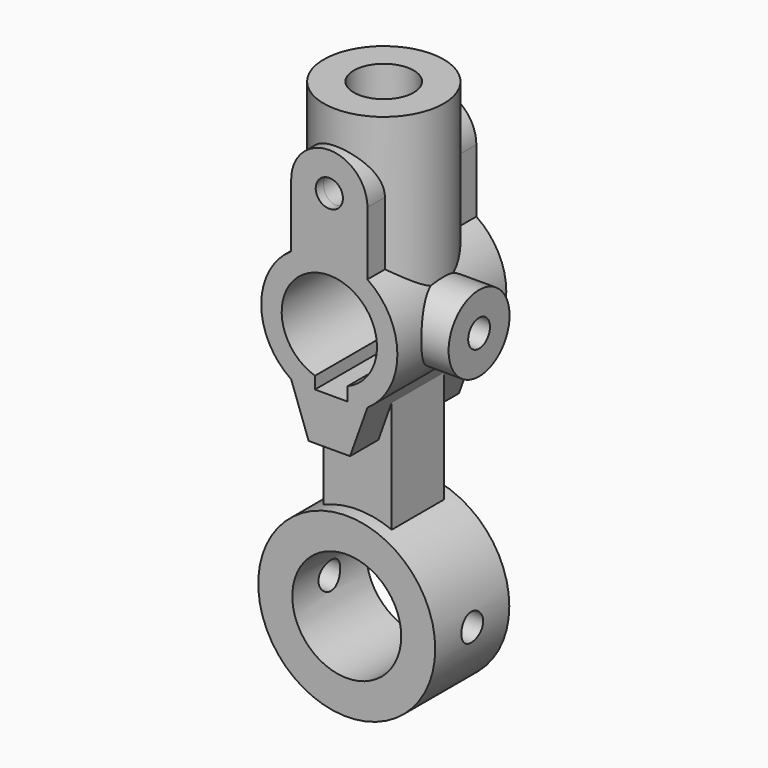
from build123d import *

# Parameters (mm, degrees)
F0_R      = 32.5
F0_R_2    = 20
F1_DEPTH  = 17
F2_R      = 17.5
F2_R_2    = 5
F3_DEPTH  = 25
F4_W      = 24
F4_H      = 52.1851917974
F5_DEPTH  = 12.5
F7_START  = 96
F6_R      = 22
F6_R_2    = 11
F7_DEPTH  = 70
F8_R      = 5
F9_DEPTH  = 25
F11_START = 18
F10_R     = 14
F10_R_2   = 5
F11_DEPTH = 17
F12_R     = 5
F13_DEPTH = 50
F14_R     = 5
F15_DEPTH = 100
F17_START = 100.45669
F16_R     = 11
F17_DEPTH = 95.49009


with BuildPart() as f1:
    # F0 (on Front) → F1 (new body, symmetric)
    with BuildSketch(Plane.XZ):
        Circle(F0_R)
        Circle(F0_R_2, mode=Mode.SUBTRACT)
    extrude(amount=F1_DEPTH, both=True)



with BuildPart() as f3:
    # F2 (on Front) → F3 (new body, symmetric)
    with BuildSketch(Plane.XZ):
        with BuildLine():
            Line((14, 116.7123151772), (14, 140))
            ThreePointArc((14, 140), (0, 154), (-14, 140))
            Line((-14, 140), (-14, 116.7123151772))
            ThreePointArc((-14, 116.7123151772), (-25, 96), (-14, 75.2876848228))
            Line((-14, 75.2876848228), (-7.6071750373, 57.4770346284))
            Line((-7.6071750373, 57.4770346284), (7.6071750373, 57.4770346284))
            Line((7.6071750373, 57.4770346284), (14, 75.2876848228))
            ThreePointArc((14, 75.2876848228), (25, 96), (14, 116.7123151772))
        make_face()
        with Locations((0, 96)):
            Circle(F2_R, mode=Mode.SUBTRACT)
        with Locations((0, 140)):
            Circle(F2_R_2, mode=Mode.SUBTRACT)
    extrude(amount=F3_DEPTH, both=True)


with BuildPart() as f1_1:
    add(f1.part)

    add(f3.part)  # F5 merges F3
    # F4 (on Right) → F5 (join, symmetric)
    with BuildSketch(Plane.YZ):
        with Locations((0, 49.1950889241)):
            Rectangle(F4_W, F4_H)
    extrude(amount=F5_DEPTH, both=True)

    # F6 (on Top) → F7 (join)
    with BuildSketch(Plane.XY.offset(F7_START)):
        Circle(F6_R)
        Circle(F6_R_2, mode=Mode.SUBTRACT)
    extrude(amount=F7_DEPTH)

    # F8 (on Front) → F9 (cut, symmetric)
    with BuildSketch(Plane.XZ):
        with BuildLine():
            Line((-5.2628141348, 79.8488289397), (6.7371858652, 79.8488289397))
            ThreePointArc((6.7371858652, 79.8488289397), (14.562807982, 86.295638935), (17.5, 96))
            ThreePointArc((17.5, 96), (-10.3477232433, 110.1129239947), (-5.2628141348, 79.3100992399))
            Line((-5.2628141348, 79.3100992399), (-5.2628141348, 79.8488289397))
        make_face()
        with BuildLine():
            Line((6.7371858652, 74.8488289397), (6.7371858652, 79.8488289397))
            ThreePointArc((6.7371858652, 79.8488289397), (0.7848569438, 78.5176088713), (-5.2628141348, 79.3100992399))
            Line((-5.2628141348, 79.3100992399), (-5.2628141348, 74.8488289397))
            Line((-5.2628141348, 74.8488289397), (6.7371858652, 74.8488289397))
        make_face()
        with BuildLine():
            ThreePointArc((-5.2628141348, 79.3100992399), (0.7848569438, 78.5176088713), (6.7371858652, 79.8488289397))
            Line((6.7371858652, 79.8488289397), (-5.2628141348, 79.8488289397))
            Line((-5.2628141348, 79.8488289397), (-5.2628141348, 79.3100992399))
        make_face()
        with Locations((0, 140)):
            Circle(F8_R)
    extrude(amount=F9_DEPTH, both=True, mode=Mode.SUBTRACT)

    # F10 (on Right) → F11 (join)
    with BuildSketch(Plane.YZ.offset(F11_START)):
        with Locations((0, 96)):
            Circle(F10_R)
        with Locations((0, 96)):
            Circle(F10_R_2, mode=Mode.SUBTRACT)
    extrude(amount=F11_DEPTH)

    # F12 (on Right) → F13 (cut, symmetric)
    with BuildSketch(Plane.YZ):
        Circle(F12_R)
    extrude(amount=F13_DEPTH, both=True, mode=Mode.SUBTRACT)

    # F14 (on Right) → F15 (cut)
    with BuildSketch(Plane.YZ):
        with Locations((0, 96)):
            Circle(F14_R)
    extrude(amount=F15_DEPTH, mode=Mode.SUBTRACT)

    # F16 (on Top) → F17 (cut)
    with BuildSketch(Plane.XY.offset(F17_START)):
        Circle(F16_R)
    extrude(amount=F17_DEPTH, mode=Mode.SUBTRACT)


solid = f1_1.part
